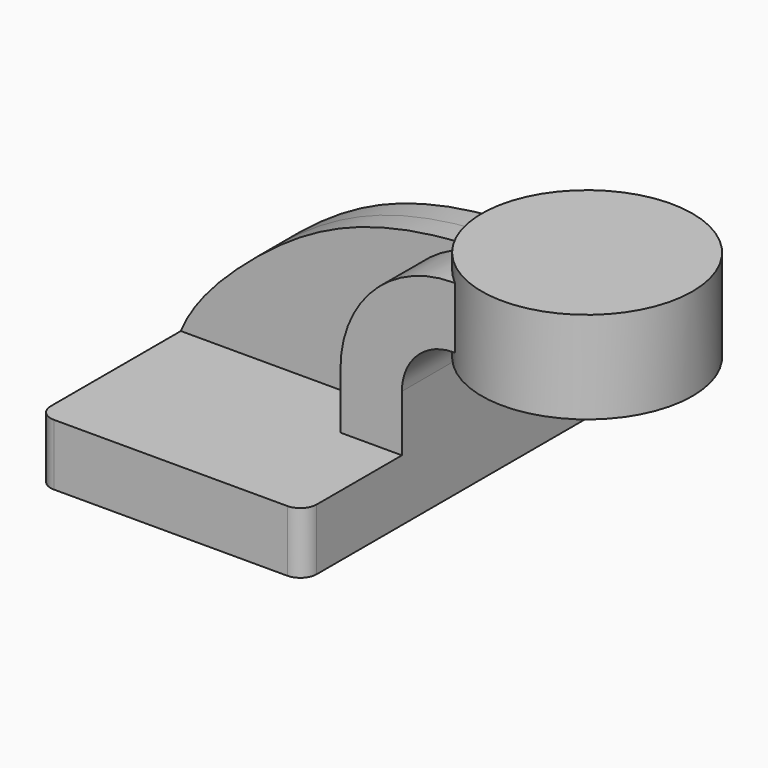
from build123d import *

# Parameters (mm, degrees)
F1_DEPTH = 63.5
F0_W     = 18.0850151875
F0_H     = 19.05
F2_DEPTH = 25.4
F3_DEPTH = 7.9375
F5_R     = 5.08
F6_R     = 5.08


with BuildPart() as f1:
    # F0 (on Front) → F1 (new body, symmetric)
    with BuildSketch(Plane.XZ):
        Polygon((-41.275, -9.525), (41.275, -9.525), (41.275, 9.525), (22.225, 9.525), (-41.275, 9.525), align=None)
    extrude(amount=F1_DEPTH, both=True)

    # F0 (on Front) → F2 (join, symmetric)
    with BuildSketch(Plane.XZ):
        with BuildLine():
            Line((22.225, 9.525), (41.275, 9.525))
            Line((41.275, 9.525), (41.275, 27.0002))
            ThreePointArc((41.275, 27.0002), (45.9246798487, 38.2255201513), (57.15, 42.8752))
            Line((57.15, 42.8752), (60.325, 42.8752))
            Line((60.325, 42.8752), (60.325, 61.9252))
            Line((60.325, 61.9252), (57.15, 61.9252))
            ThreePointArc((57.15, 61.9252), (32.4542956671, 51.6959043329), (22.225, 27.0002))
            Line((22.225, 27.0002), (22.225, 9.525))
        make_face()
        with Locations((69.3675075937, 52.4002)):
            Rectangle(F0_W, F0_H)
    extrude(amount=F2_DEPTH, both=True)

    # F0 (on Front) → F3 (join, symmetric)
    with BuildSketch(Plane.XZ):
        with BuildLine():
            add(Edge.make_bspline(
                [(-41.275, 9.525), (-37.5866588905, 18.8099618573), (-19.5091748913, 37.7919660038), (11.8441398709, 58.454694521), (42.3775529044, 62.5964135267), (57.15, 61.9252)],
                knots=[0, 0, 0, 0, 0.3130865631, 0.6429480461, 1, 1, 1, 1], degree=3))
            Line((-41.275, 9.525), (22.225, 9.525))
            Line((22.225, 9.525), (22.225, 27.0002))
            ThreePointArc((22.225, 27.0002), (32.4542956671, 51.6959043329), (57.15, 61.9252))
        make_face()
    extrude(amount=F3_DEPTH, both=True)

    # F0 (on Front) → F4 (revolve)
    with BuildSketch(Plane.XZ):
        Polygon((78.4100151875, 66.675), (78.4100151875, 61.9252), (78.4100151875, 42.8752), (78.4100151875, 38.1), (111.125, 38.1), (111.125, 66.675), align=None)
    revolve(axis=Axis((78.4100151875, 0, 52.3875), (0, 0, -1)))

    # F5
    f5_edges = [f1.edges().sort_by_distance(p)[0] for p in [
        (-41.275, -63.5, 0),
        (41.275, -63.5, 0),
    ]]
    fillet(f5_edges, radius=F5_R)

    # F6
    f6_edges = [f1.edges().sort_by_distance(p)[0] for p in [
        (41.275, 63.5, 0),
        (-41.275, 63.5, 0),
    ]]
    fillet(f6_edges, radius=F6_R)


solid = f1.part
